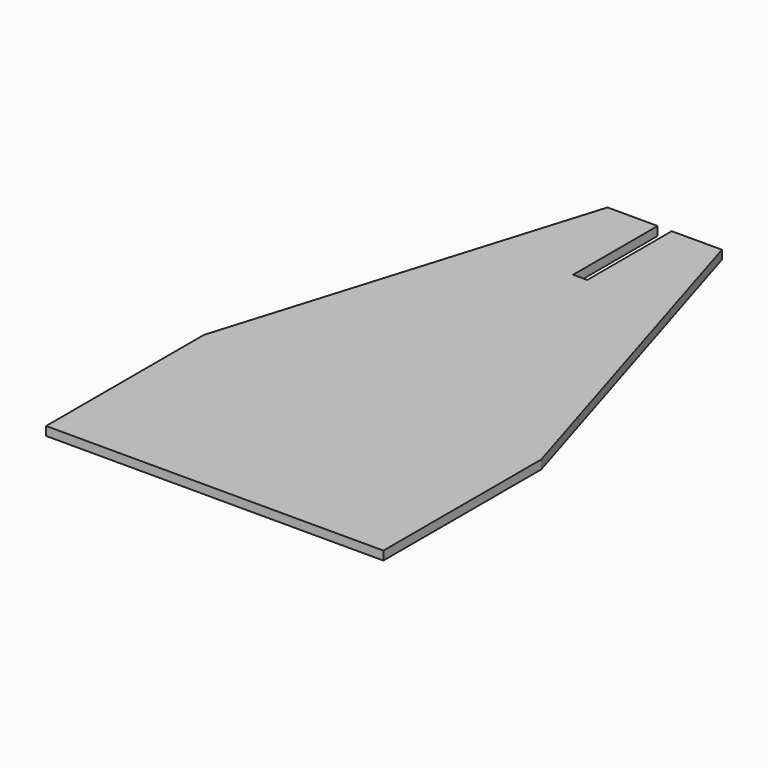
from build123d import *

# Parameters (mm, degrees)
F0_W     = 60.8292
F0_H     = 71.166755
F1_DEPTH = 3.175
F0_W_2   = 2.54
F0_H_2   = 38.1
F2_DEPTH = 3.175


with BuildPart() as f1:
    # F0 (on Top) → F1 (new body)
    with BuildSketch(Plane.XY):
        Polygon((0, 94.343368), (0, 0.757935), (60.8292, 0.757935), (20.6375, 132.443368), (2.54, 132.443368), (2.54, 94.343368), align=None)
        Polygon((-2.54, 132.443368), (-20.6375, 132.443368), (-60.8292, 0.757935), (0, 0.757935), (0, 94.343368), (-2.54, 94.343368), align=None)
        with Locations((-30.4146, -34.825442)):
            Rectangle(F0_W, F0_H)
        with Locations((30.4146, -34.825442)):
            Rectangle(F0_W, F0_H)
    extrude(amount=F1_DEPTH)

    # F0 (on Top) → F2 (cut)
    with BuildSketch(Plane.XY):
        with Locations((-1.27, 113.393368)):
            Rectangle(F0_W_2, F0_H_2)
        with Locations((1.27, 113.393368)):
            Rectangle(F0_W_2, F0_H_2)
    extrude(amount=-F2_DEPTH, mode=Mode.SUBTRACT)


solid = f1.part
